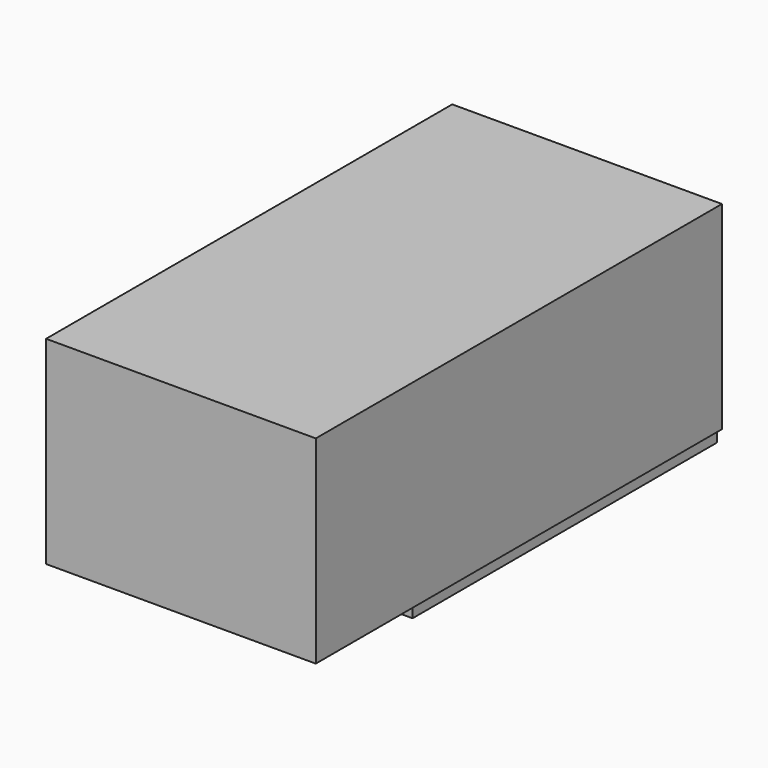
from build123d import *

# Parameters (mm, degrees)
F0_W     = 228.6
F0_H     = 609.6
F1_DEPTH = 25.4
F2_W     = 431.8
F2_H     = 812.8
F3_DEPTH = 317.5
F4_R     = 3.175
F5_DEPTH = 25.4


with BuildPart() as f1:
    # F0 (on Top) → F1 (new body)
    with BuildSketch(Plane.XY):
        Rectangle(F0_W, F0_H)
    extrude(amount=F1_DEPTH)

    # F2 (on face) → F3 (join)
    with BuildSketch(Plane.XY.offset(25.4)):
        with Locations((-88.9, -107.95)):
            Rectangle(F2_W, F2_H)
    extrude(amount=F3_DEPTH)

    # F4 (on face) → F5 (cut)
    with BuildSketch(Plane(origin=(0, 0, 0), x_dir=(1, 0, 0), z_dir=(0, 0, -1))):
        with Locations((-50.8, -228.6)):
            Circle(F4_R)
        with Locations((19.05, -228.6)):
            Circle(F4_R)
        with Locations((-50.8, 146.05)):
            Circle(F4_R)
        with Locations((19.05, 146.05)):
            Circle(F4_R)
    extrude(amount=-F5_DEPTH, mode=Mode.SUBTRACT)


solid = f1.part
